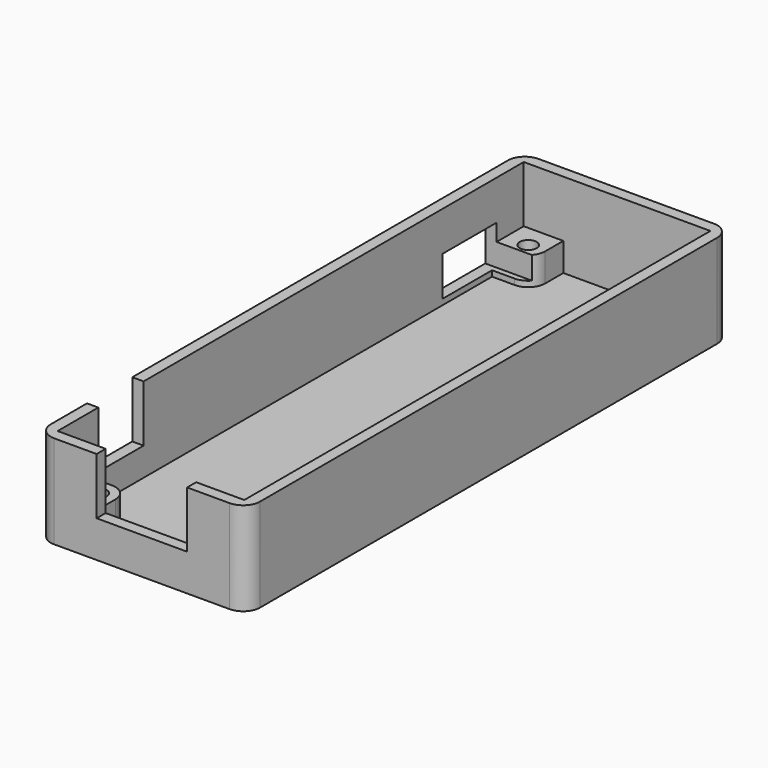
from build123d import *

# Parameters (mm, degrees)
F0_W      = 37
F0_H      = 107
F1_DEPTH  = 1.5
F2_W      = 37
F2_H      = 107
F2_W_2    = 33
F2_H_2    = 103
F3_DEPTH  = 15
F4_W      = 7
F4_H      = 7
F5_DEPTH  = 5
F6_R      = 1.5
F7_DEPTH  = 5
F8_R      = 3
F9_W      = 8
F9_H      = 11.456422
F10_DEPTH = 25
F11_W     = 12
F11_H     = 3
F11_H_2   = 4
F11_W_2   = 10
F11_H_3   = 12.768078
F12_DEPTH = 25
F13_R     = 3


with BuildPart() as f1:
    # F0 (on Top) → F1 (new body)
    with BuildSketch(Plane.XY):
        Rectangle(F0_W, F0_H)
    extrude(amount=F1_DEPTH)

    # F2 (on face) → F3 (join)
    with BuildSketch(Plane.XY.offset(1.5)):
        Rectangle(F2_W, F2_H)
        Rectangle(F2_W_2, F2_H_2, mode=Mode.SUBTRACT)
    extrude(amount=F3_DEPTH)

    # F4 (on face) → F5 (join)
    with BuildSketch(Plane.XY.offset(1.5)):
        with Locations((-13, 48)):
            Rectangle(F4_W, F4_H)
        with Locations((13, 48)):
            Rectangle(F4_W, F4_H)
        with Locations((13, -48)):
            Rectangle(F4_W, F4_H)
        with Locations((-13, -48)):
            Rectangle(F4_W, F4_H)
    extrude(amount=F5_DEPTH)

    # F6 (on face) → F7 (cut)
    with BuildSketch(Plane.XY.offset(6.5)):
        with Locations((-12.5, 47.5)):
            Circle(F6_R)
        with Locations((12.5, 47.5)):
            Circle(F6_R)
        with Locations((12.5, -47.5)):
            Circle(F6_R)
        with Locations((-12.5, -47.5)):
            Circle(F6_R)
    extrude(amount=-F7_DEPTH, mode=Mode.SUBTRACT)

    # F8
    f8_edges = [f1.edges().sort_by_distance(p)[0] for p in [
        (-9.5, 44.5, 4),
        (9.5, 44.5, 4),
        (-9.5, -44.5, 4),
        (9.5, -44.5, 4),
    ]]
    fillet(f8_edges, radius=F8_R)

    # F9 (on face) → F10 (cut)
    with BuildSketch(Plane(origin=(0, -51.5, 0), x_dir=(-1, 0, 0), z_dir=(0, 1, 0))):
        with Locations((4, 12.228211)):
            Rectangle(F9_W, F9_H)
        with Locations((-4, 12.228211)):
            Rectangle(F9_W, F9_H)
    extrude(amount=-F10_DEPTH, mode=Mode.SUBTRACT)

    # F11 (on face) → F12 (cut)
    with BuildSketch(Plane(origin=(-18.5, 0, 0), x_dir=(0, -1, 0), z_dir=(-1, 0, 0))):
        with Locations((-39.5, 8)):
            Rectangle(F11_W, F11_H)
        with Locations((-39.5, 4.5)):
            Rectangle(F11_W, F11_H_2)
        with Locations((37.5, 12.884039)):
            Rectangle(F11_W_2, F11_H_3)
    extrude(amount=-F12_DEPTH, mode=Mode.SUBTRACT)

    # F13
    f13_edges = [f1.edges().sort_by_distance(p)[0] for p in [
        (18.5, -53.5, 8.25),
        (-18.5, -53.5, 8.25),
        (-18.5, 53.5, 8.25),
        (18.5, 53.5, 8.25),
    ]]
    fillet(f13_edges, radius=F13_R)


solid = f1.part
